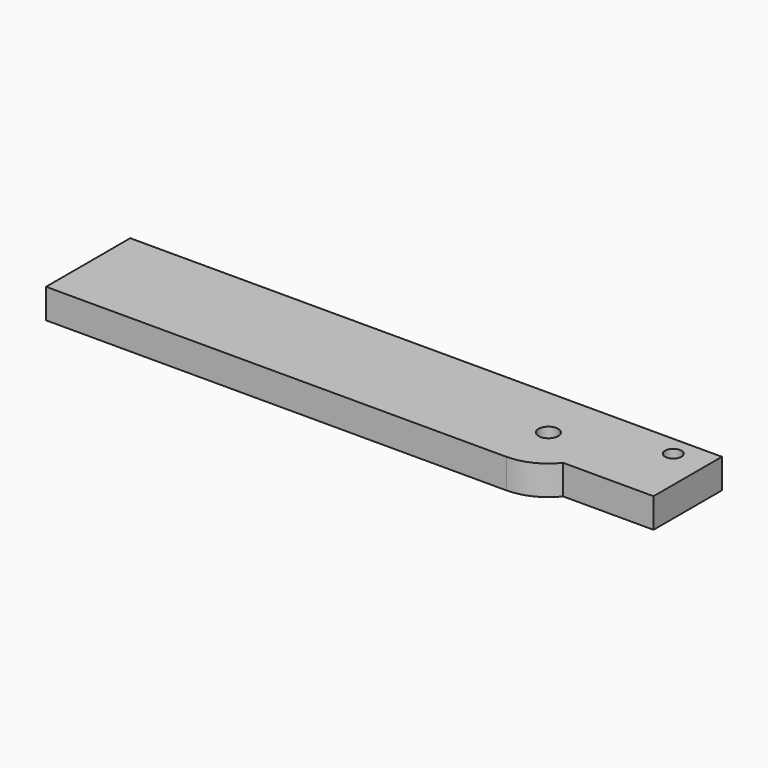
from build123d import *

# Parameters (mm, degrees)
F1_DEPTH = 4.5
F2_D     = 3
F2_DEPTH = 10
F2_TIP   = 0.9012909285
F3_D     = 2.5
F3_DEPTH = 10
F3_TIP   = 0.7510757738


with BuildPart() as f1:
    # F0 (on Top) → F1 (new body)
    with BuildSketch(Plane.XY):
        Polygon((35, -5), (35, 8), (-35, 8), (-35, -8), (35, -8), align=None)
        with BuildLine():
            Line((41.2449979984, -5), (35, -5))
            Line((35, -5), (35, -8))
            ThreePointArc((35, -8), (38.4641016151, -7.2111025509), (41.2449979984, -5))
        make_face()
        with BuildLine():
            ThreePointArc((41.2449979984, -5), (42.2111025509, 3.4641016151), (35, 8))
            Line((35, 8), (35, -5))
            Line((35, -5), (41.2449979984, -5))
        make_face()
        with BuildLine():
            Line((55, 8), (35, 8))
            ThreePointArc((35, 8), (42.2111025509, 3.4641016151), (41.2449979984, -5))
            Line((41.2449979984, -5), (55, -5))
            Line((55, -5), (55, 8))
        make_face()
    extrude(amount=F1_DEPTH)

    # F2
    with Locations(Plane(origin=(0, 0, 0), x_dir=(1, 0, 0), z_dir=(0, 0, -1))):
        with Locations((35, 0)):
            Hole(F2_D / 2, depth=F2_DEPTH)
            with Locations((0, 0, -(F2_DEPTH + F2_TIP / 2))):  # 118° drill point
                Cone(0, F2_D / 2, F2_TIP, mode=Mode.SUBTRACT)

    # F3
    with Locations(Plane(origin=(0, 0, 0), x_dir=(1, 0, 0), z_dir=(0, 0, -1))):
        with Locations((50, -5)):
            Hole(F3_D / 2, depth=F3_DEPTH)
            with Locations((0, 0, -(F3_DEPTH + F3_TIP / 2))):  # 118° drill point
                Cone(0, F3_D / 2, F3_TIP, mode=Mode.SUBTRACT)


solid = f1.part
